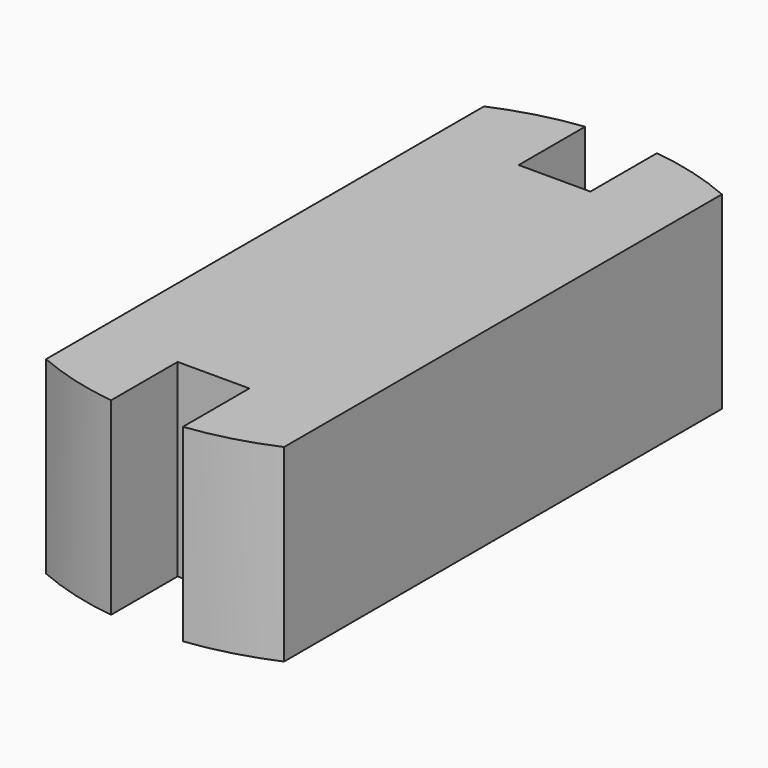
from build123d import *

# Parameters (mm, degrees)
F1_DEPTH = 25


with BuildPart() as f1:
    # F0 (on Top) → F1 (new body)
    with BuildSketch(Plane.XY):
        with BuildLine():
            ThreePointArc((-4.75, 39.213359), (-10.358396, 38.117629), (-15.75, 36.224129))
            Line((-15.75, 36.224129), (-15.75, -36.224129))
            ThreePointArc((-15.75, -36.224129), (-10.358396, -38.117629), (-4.75, -39.213359))
            Line((-4.75, -39.213359), (-4.75, -28.213359))
            Line((-4.75, -28.213359), (4.75, -28.213359))
            Line((4.75, -28.213359), (4.75, -39.213359))
            ThreePointArc((4.75, -39.213359), (10.358396, -38.117629), (15.75, -36.224129))
            Line((15.75, -36.224129), (15.75, 36.224129))
            ThreePointArc((15.75, 36.224129), (10.358396, 38.117629), (4.75, 39.213359))
            Line((4.75, 39.213359), (4.75, 28.213359))
            Line((4.75, 28.213359), (-4.75, 28.213359))
            Line((-4.75, 28.213359), (-4.75, 39.213359))
        make_face()
    extrude(amount=F1_DEPTH)


solid = f1.part
